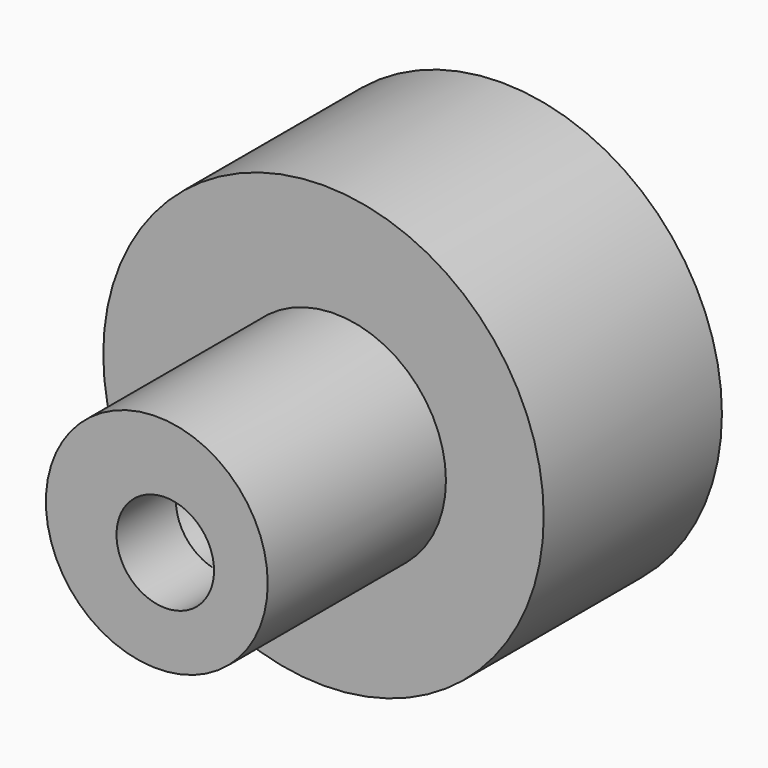
from build123d import *

# Parameters (mm, degrees)
F0_R      = 75.3383577212
F1_DEPTH  = 76.2
F2_R      = 37.9498660495
F3_DEPTH  = 127
F5_R      = 18.6285804239
F6_DEPTH  = 76.2
F4_R      = 37.9498660495
F7_DEPTH  = 76.2
F8_DEPTH  = 50.8
F9_R      = 16.6862695849
F10_DEPTH = 76.2


with BuildPart() as f1:
    # F0 (on Front) → F1 (new body)
    with BuildSketch(Plane.XZ):
        Circle(F0_R)
    extrude(amount=F1_DEPTH)

    # F2 (on Front) → F3 (join)
    with BuildSketch(Plane.XZ):
        with Locations((3.9345594123, 0)):
            Circle(F2_R)
    extrude(amount=F3_DEPTH)

    # F5 (on face) → F6 (cut)
    with BuildSketch(Plane.XZ.offset(127)):
        Circle(F5_R)
    extrude(amount=-F6_DEPTH, mode=Mode.SUBTRACT)

    # F4 (on face) → F7 (join)
    with BuildSketch(Plane.XZ.offset(127)):
        with Locations((3.9345594123, 0)):
            Circle(F4_R)
    extrude(amount=F7_DEPTH)

    # F8 (cut): a face of the model
    f8_faces = [f1.faces().sort_by_distance(p)[0] for p in [
        (3.9345594123, -203.2, 0),
    ]]
    extrude(f8_faces, amount=-F8_DEPTH, mode=Mode.SUBTRACT)

    # F9 (on face) → F10 (cut)
    with BuildSketch(Plane.XZ.offset(152.4)):
        with Locations((6.8308734335, -2.1039112471)):
            Circle(F9_R)
    extrude(amount=-F10_DEPTH, mode=Mode.SUBTRACT)


solid = f1.part
